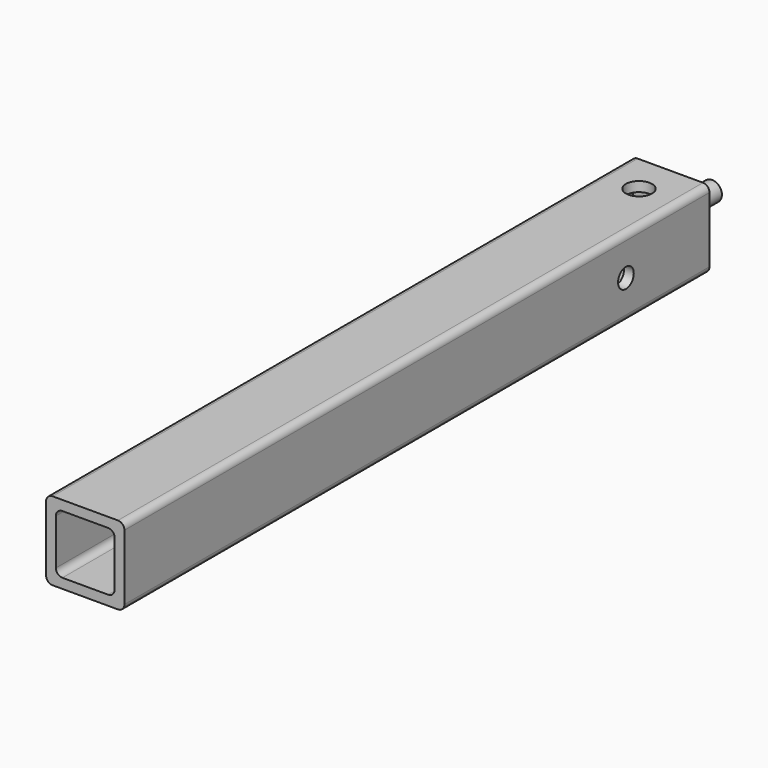
from build123d import *

# Parameters (mm, degrees)
F7_DEPTH  = 355.6
F8_D      = 12.7
F8_DEPTH  = 19.051
F9_D      = 12.7
F0_R      = 4.7625
F2_DEPTH  = 4.7625
F4_D      = 9.525
F4_DEPTH  = 19.051
F5_D      = 12.7
F5_DEPTH  = 19.051
F10_D     = 22.225
F10_DEPTH = 19.051
F6_DEPTH  = 25.4


with BuildPart() as f7:
    # F0 (on Front) → F7 (new body)
    with BuildSketch(Plane.XZ):
        with BuildLine():
            Line((-15.875, -19.05), (15.875, -19.05))
            ThreePointArc((15.875, -19.05), (18.1200640303, -18.1200640303), (19.05, -15.875))
            Line((19.05, -15.875), (19.05, 15.875))
            ThreePointArc((19.05, 15.875), (18.1200640303, 18.1200640303), (15.875, 19.05))
            Line((15.875, 19.05), (-15.875, 19.05))
            ThreePointArc((-15.875, 19.05), (-18.1200640303, 18.1200640303), (-19.05, 15.875))
            Line((-19.05, 15.875), (-19.05, -15.875))
            ThreePointArc((-19.05, -15.875), (-18.1200640303, -18.1200640303), (-15.875, -19.05))
        make_face()
        with BuildLine():
            ThreePointArc((14.2875, -11.1125), (13.3575640303, -13.3575640303), (11.1125, -14.2875))
            Line((11.1125, -14.2875), (-11.1125, -14.2875))
            ThreePointArc((-11.1125, -14.2875), (-13.3575640303, -13.3575640303), (-14.2875, -11.1125))
            Line((-14.2875, -11.1125), (-14.2875, 11.1125))
            ThreePointArc((-14.2875, 11.1125), (-13.3575640303, 13.3575640303), (-11.1125, 14.2875))
            Line((-11.1125, 14.2875), (11.1125, 14.2875))
            ThreePointArc((11.1125, 14.2875), (13.3575640303, 13.3575640303), (14.2875, 11.1125))
            Line((14.2875, 11.1125), (14.2875, -11.1125))
        make_face(mode=Mode.SUBTRACT)
    extrude(amount=F7_DEPTH)

    # F8 (through all, one way)
    with BuildSketch(Plane.XY):
        with Locations((0, -19.05)):
            Circle(F8_D / 2)
    extrude(amount=-F8_DEPTH, mode=Mode.SUBTRACT)

    # F9 (through all)
    with Locations(Plane(origin=(0, 0, 0), x_dir=(1, 0, 0), z_dir=(0, 0, -1))):
        with Locations((0, 19.05)):
            Hole(F9_D / 2)

    # F0 (on Front) → F2 (join)
    with BuildSketch(Plane.XZ):
        with BuildLine():
            Line((-11.1125, -14.2875), (11.1125, -14.2875))
            ThreePointArc((11.1125, -14.2875), (13.3575640303, -13.3575640303), (14.2875, -11.1125))
            Line((14.2875, -11.1125), (14.2875, 11.1125))
            ThreePointArc((14.2875, 11.1125), (13.3575640303, 13.3575640303), (11.1125, 14.2875))
            Line((11.1125, 14.2875), (-11.1125, 14.2875))
            ThreePointArc((-11.1125, 14.2875), (-13.3575640303, 13.3575640303), (-14.2875, 11.1125))
            Line((-14.2875, 11.1125), (-14.2875, -11.1125))
            ThreePointArc((-14.2875, -11.1125), (-13.3575640303, -13.3575640303), (-11.1125, -14.2875))
        make_face()
        Circle(F0_R, mode=Mode.SUBTRACT)
        Circle(F0_R)
    extrude(amount=F2_DEPTH)

    # F4 (through all, one way)
    with BuildSketch(Plane(origin=(0, 0, 0), x_dir=(0, 1, 0), z_dir=(-1, 0, 0))):
        with Locations((-50.8, 0)):
            Circle(F4_D / 2)
    extrude(amount=-F4_DEPTH, mode=Mode.SUBTRACT)

    # F5 (through all, one way)
    with BuildSketch(Plane.YZ):
        with Locations((-50.8, 0)):
            Circle(F5_D / 2)
    extrude(amount=-F5_DEPTH, mode=Mode.SUBTRACT)

    # F10 (through all, one way)
    with BuildSketch(Plane.YZ):
        with Locations((-82.55, 0)):
            Circle(F10_D / 2)
    extrude(amount=-F10_DEPTH, mode=Mode.SUBTRACT)

    # F0 (on Front) → F6 (join)
    with BuildSketch(Plane.XZ):
        Circle(F0_R)
    extrude(amount=-F6_DEPTH)


solid = f7.part
